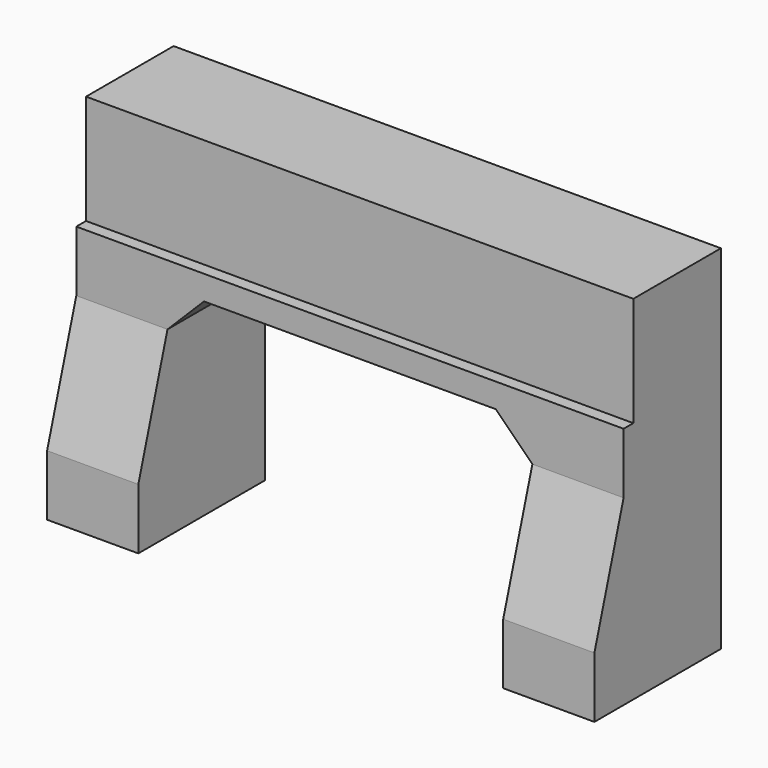
from build123d import *

# Parameters (mm, degrees)
SKETCH_W          = 200
SKETCH_H          = 100
SKETCH_W_2        = 180
SKETCH_H_2        = 150
SKETCH_H_3        = 30
PAD_DEPTH         = 900
POCKET_DEPTH      = 200.001
POCKET_DEPTH_BACK = -60.001
SKETCH002_W       = 20
SKETCH002_H       = 30
POCKET001_DEPTH   = 900.001


with BuildPart() as part:
    # Sketch → Pad (new body)
    with BuildSketch(Plane.YZ):
        with Locations((100, 50)):
            Rectangle(SKETCH_W, SKETCH_H)
        with Locations((110, 175)):
            Rectangle(SKETCH_W_2, SKETCH_H_2)
        with Locations((100, 265)):
            Rectangle(SKETCH_W, SKETCH_H_3)
        Polygon((0, 0), (200, 0), (200, -300), (-60, -300), (-60, -200), align=None)
    extrude(amount=PAD_DEPTH)

    # Sketch001 (on Face6 of Pad) → Pocket (cut, two sides)
    with BuildSketch(Plane(origin=(0, 0, 0), x_dir=(0, 0, -1), z_dir=(0, -1, 0))) as pocket_sk:
        Polygon((0, 150), (494.350739, 150), (494.350739, 750), (0, 750), (-60, 690), (-60, 210), align=None)
    extrude(amount=-POCKET_DEPTH, mode=Mode.SUBTRACT)
    extrude(pocket_sk.sketch, amount=-POCKET_DEPTH_BACK, mode=Mode.SUBTRACT)

    # Sketch002 (on Face5 of Pocket) → Pocket001 (cut, through all)
    with BuildSketch(Plane.YZ.offset(900)):
        with Locations((10, 265)):
            Rectangle(SKETCH002_W, SKETCH002_H)
    extrude(amount=-POCKET001_DEPTH, mode=Mode.SUBTRACT)


solid = part.part
